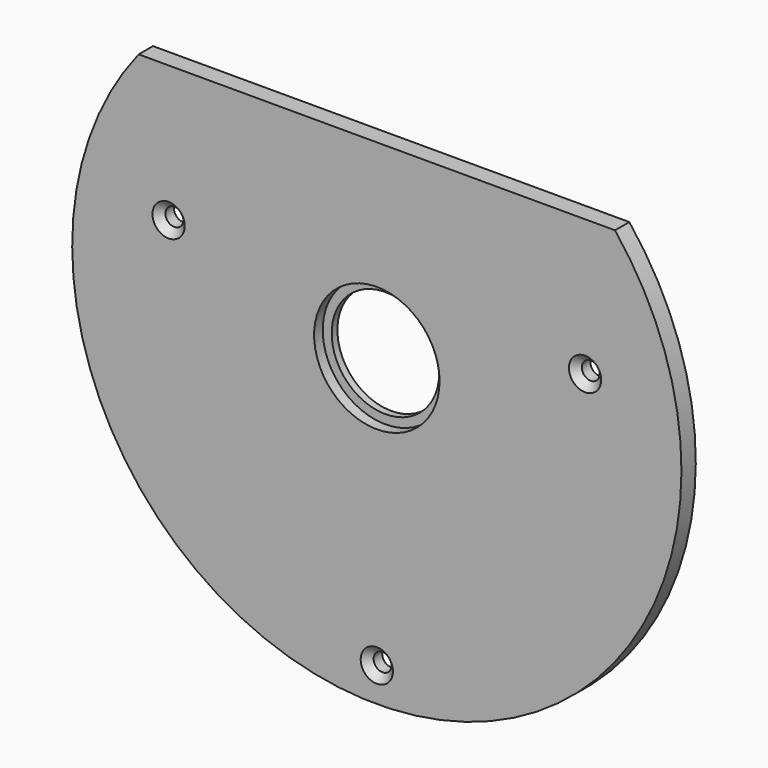
from build123d import *

# Parameters (mm, degrees)
F1_R           = 2.5
F1_R_2         = 17.5
F2_DEPTH       = 5
F3_START       = -3
F1_R_3         = 15
F3_DEPTH       = 2
F4_D           = 5
F4_CSINK_D     = 9
F4_CSINK_ANGLE = 90


with BuildPart() as f2:
    # F1 (on Front) → F2 (new body)
    with BuildSketch(Plane.XZ):
        with BuildLine():
            Line((66.4529909033, 53), (-66.4529909033, 53))
            ThreePointArc((-66.4529909033, 53), (0, -85), (66.4529909033, 53))
        make_face()
        with Locations((0, -75.5)):
            Circle(F1_R, mode=Mode.SUBTRACT)
        with Locations((-58.0947501931, 15)):
            Circle(F1_R, mode=Mode.SUBTRACT)
        Circle(F1_R_2, mode=Mode.SUBTRACT)
        with Locations((58.0947501931, 15)):
            Circle(F1_R, mode=Mode.SUBTRACT)
        with Locations((-58.0947501931, 15)):
            Circle(F1_R)
        with Locations((58.0947501931, 15)):
            Circle(F1_R)
        with Locations((0, -75.5)):
            Circle(F1_R)
    extrude(amount=-F2_DEPTH)

    # F1 (on Front) → F3 (join)
    with BuildSketch(Plane.XZ.offset(F3_START)):
        Circle(F1_R_2)
        Circle(F1_R_3, mode=Mode.SUBTRACT)
    extrude(amount=-F3_DEPTH)

    # F4 (through all)
    with Locations(Plane.XZ):
        with Locations((-58.0947501931, 15), (58.0947501931, 15), (0, -75.5)):
            CounterSinkHole(F4_D / 2, F4_CSINK_D / 2, counter_sink_angle=F4_CSINK_ANGLE)


solid = f2.part
